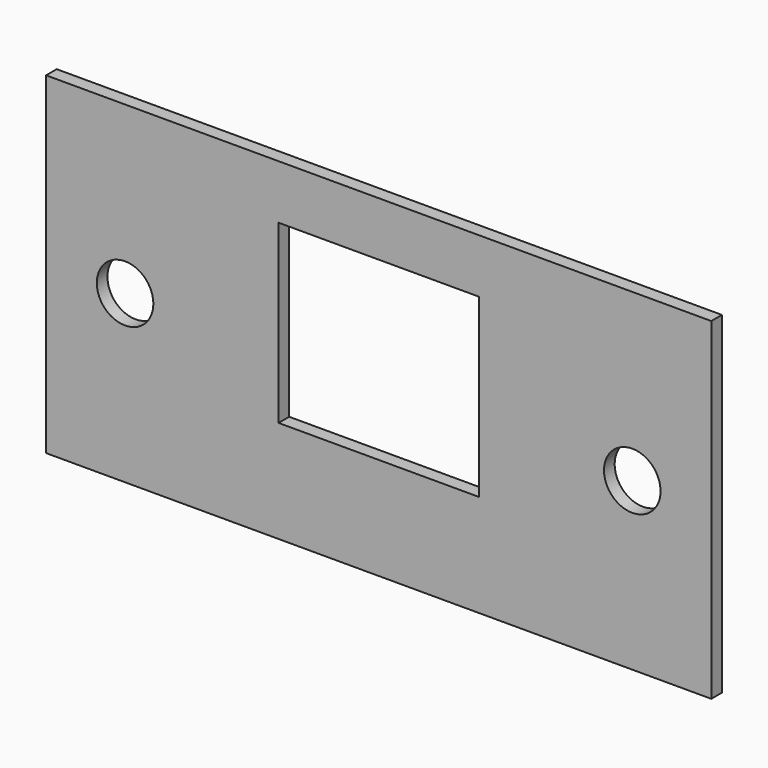
from build123d import *

# Parameters (mm, degrees)
SKETCH_W        = 40
SKETCH_H        = 20
PAD_DEPTH       = 0.8
SKETCH001_R     = 1.7
POCKET_DEPTH    = 90.258029
SKETCH002_W     = 12.04
SKETCH002_H     = 10.6
POCKET001_DEPTH = 0.801


with BuildPart() as part:
    # Sketch → Pad (new body)
    with BuildSketch(Plane.XZ):
        Rectangle(SKETCH_W, SKETCH_H)
    extrude(amount=PAD_DEPTH)

    # Sketch001 (on Face6 of Pad) → Pocket (cut, through all)
    with BuildSketch(Plane.XZ.offset(0.8)):
        with Locations((-15.25, 0)):
            Circle(SKETCH001_R)
    pocket = extrude(amount=-POCKET_DEPTH, mode=Mode.SUBTRACT)

    # Mirrored: Pocket across YZ
    add(pocket.mirror(Plane.YZ), mode=Mode.SUBTRACT)

    # Sketch002 (on Face5 of Mirrored) → Pocket001 (cut, through all)
    with BuildSketch(Plane.XZ.offset(0.8)):
        with Locations((0, 1.445)):
            Rectangle(SKETCH002_W, SKETCH002_H)
    extrude(amount=-POCKET001_DEPTH, mode=Mode.SUBTRACT)


solid = part.part
